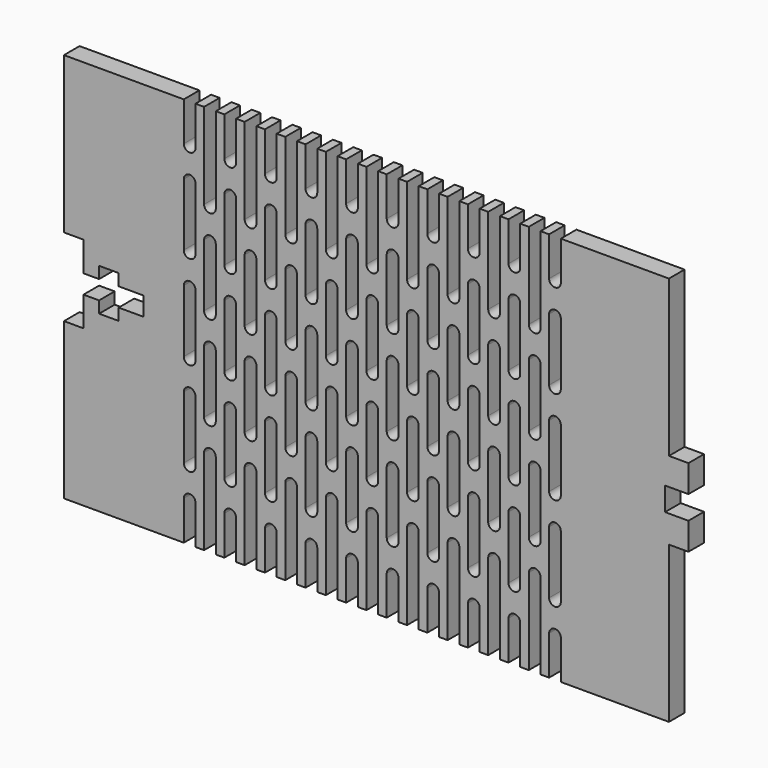
from build123d import *

# Parameters (mm, degrees)
F0_W     = 101.6
F0_H     = 63.5
F1_DEPTH = 3.175
F2_W     = 3.175
F2_H     = 25.4
F3_DEPTH = 25.4
F5_DEPTH = 25.4


with BuildPart() as f1:
    # F0 (on Front) → F1 (new body)
    with BuildSketch(Plane.XZ):
        Rectangle(F0_W, F0_H)
    extrude(amount=F1_DEPTH)

    # F2 (on Front) → F3 (cut)
    with BuildSketch(Plane.XZ):
        with Locations((49.2125, 19.05)):
            Rectangle(F2_W, F2_H)
        Polygon((50.8, -1.905), (50.8, 0), (50.8, 1.905), (46.99, 1.905), (46.99, 0), (46.99, -1.905), align=None)
        with Locations((49.2125, -19.05)):
            Rectangle(F2_W, F2_H)
        Polygon((-50.8, 6.35), (-50.8, 0), (-50.8, -6.35), (-47.625, -6.35), (-47.625, -1.524), (-45.085, -1.524), (-45.085, -3.429), (-41.91, -3.429), (-41.91, -1.524), (-37.846, -1.524), (-37.846, 0), (-37.846, 1.524), (-41.91, 1.524), (-41.91, 3.429), (-45.085, 3.429), (-45.085, 1.524), (-47.625, 1.524), (-47.625, 6.35), align=None)
    extrude(amount=F3_DEPTH, mode=Mode.SUBTRACT)

    # F4 (on face) → F5 (cut)
    with BuildSketch(Plane.XZ.offset(3.175)):
        with BuildLine():
            ThreePointArc((-24.7015, 25.4), (-23.749, 24.4475), (-22.7965, 25.4))
            Line((-22.7965, 25.4), (-22.7965, 31.75))
            Line((-22.7965, 31.75), (-23.749, 31.75))
            Line((-23.749, 31.75), (-24.7015, 31.75))
            Line((-24.7015, 31.75), (-24.7015, 25.4))
        make_face()
        with BuildLine():
            ThreePointArc((-22.7965, 20.32), (-23.749, 21.2725), (-24.7015, 20.32))
            Line((-24.7015, 20.32), (-24.7015, 10.16))
            ThreePointArc((-24.7015, 10.16), (-23.749, 9.2075), (-22.7965, 10.16))
            Line((-22.7965, 10.16), (-22.7965, 20.32))
        make_face()
        with BuildLine():
            ThreePointArc((-22.7965, 5.08), (-23.749, 6.0325), (-24.7015, 5.08))
            Line((-24.7015, 5.08), (-24.7015, 0))
            Line((-24.7015, 0), (-24.7015, -5.08))
            ThreePointArc((-24.7015, -5.08), (-23.749, -6.0325), (-22.7965, -5.08))
            Line((-22.7965, -5.08), (-22.7965, 0))
            Line((-22.7965, 0), (-22.7965, 5.08))
        make_face()
        with BuildLine():
            Line((-23.749, -31.75), (-22.7965, -31.75))
            Line((-22.7965, -31.75), (-22.7965, -25.4))
            ThreePointArc((-22.7965, -25.4), (-23.749, -24.4475), (-24.7015, -25.4))
            Line((-24.7015, -25.4), (-24.7015, -31.75))
            Line((-24.7015, -31.75), (-23.749, -31.75))
        make_face()
        with BuildLine():
            Line((-22.7965, -20.32), (-22.7965, -10.16))
            ThreePointArc((-22.7965, -10.16), (-23.749, -9.2075), (-24.7015, -10.16))
            Line((-24.7015, -10.16), (-24.7015, -20.32))
            ThreePointArc((-24.7015, -20.32), (-23.749, -21.2725), (-22.7965, -20.32))
        make_face()
        with BuildLine():
            ThreePointArc((-21.3995, 17.78), (-20.447, 16.8275), (-19.4945, 17.78))
            Line((-19.4945, 17.78), (-19.4945, 31.75))
            Line((-19.4945, 31.75), (-20.447, 31.75))
            Line((-20.447, 31.75), (-21.3995, 31.75))
            Line((-21.3995, 31.75), (-21.3995, 17.78))
        make_face()
        with BuildLine():
            ThreePointArc((-19.4945, 12.7), (-20.447, 13.6525), (-21.3995, 12.7))
            Line((-21.3995, 12.7), (-21.3995, 2.54))
            ThreePointArc((-21.3995, 2.54), (-20.447, 1.5875), (-19.4945, 2.54))
            Line((-19.4945, 2.54), (-19.4945, 12.7))
        make_face()
        with BuildLine():
            Line((-21.3995, -17.78), (-21.3995, -31.75))
            Line((-21.3995, -31.75), (-20.447, -31.75))
            Line((-20.447, -31.75), (-19.4945, -31.75))
            Line((-19.4945, -31.75), (-19.4945, -17.78))
            ThreePointArc((-19.4945, -17.78), (-20.447, -16.8275), (-21.3995, -17.78))
        make_face()
        with BuildLine():
            Line((-19.4945, -12.7), (-19.4945, -2.54))
            ThreePointArc((-19.4945, -2.54), (-20.447, -1.5875), (-21.3995, -2.54))
            Line((-21.3995, -2.54), (-21.3995, -12.7))
            ThreePointArc((-21.3995, -12.7), (-20.447, -13.6525), (-19.4945, -12.7))
        make_face()
        with BuildLine():
            Line((-16.1925, -31.75), (-16.1925, -25.4))
            ThreePointArc((-16.1925, -25.4), (-17.145, -24.4475), (-18.0975, -25.4))
            Line((-18.0975, -25.4), (-18.0975, -31.75))
            Line((-18.0975, -31.75), (-17.145, -31.75))
            Line((-17.145, -31.75), (-16.1925, -31.75))
        make_face()
        with BuildLine():
            Line((-14.7955, -2.54), (-14.7955, -12.7))
            ThreePointArc((-14.7955, -12.7), (-13.843, -13.6525), (-12.8905, -12.7))
            Line((-12.8905, -12.7), (-12.8905, -2.54))
            ThreePointArc((-12.8905, -2.54), (-13.843, -1.5875), (-14.7955, -2.54))
        make_face()
        with BuildLine():
            Line((-18.0975, -10.16), (-18.0975, -20.32))
            ThreePointArc((-18.0975, -20.32), (-17.145, -21.2725), (-16.1925, -20.32))
            Line((-16.1925, -20.32), (-16.1925, -10.16))
            ThreePointArc((-16.1925, -10.16), (-17.145, -9.2075), (-18.0975, -10.16))
        make_face()
        with BuildLine():
            ThreePointArc((-16.1925, 5.08), (-17.145, 6.0325), (-18.0975, 5.08))
            Line((-18.0975, 5.08), (-18.0975, 0))
            Line((-18.0975, 0), (-18.0975, -5.08))
            ThreePointArc((-18.0975, -5.08), (-17.145, -6.0325), (-16.1925, -5.08))
            Line((-16.1925, -5.08), (-16.1925, 0))
            Line((-16.1925, 0), (-16.1925, 5.08))
        make_face()
        with BuildLine():
            Line((-12.8905, 17.78), (-12.8905, 31.75))
            Line((-12.8905, 31.75), (-13.843, 31.75))
            Line((-13.843, 31.75), (-14.7955, 31.75))
            Line((-14.7955, 31.75), (-14.7955, 17.78))
            ThreePointArc((-14.7955, 17.78), (-13.843, 16.8275), (-12.8905, 17.78))
        make_face()
        with BuildLine():
            ThreePointArc((-12.8905, 12.7), (-13.843, 13.6525), (-14.7955, 12.7))
            Line((-14.7955, 12.7), (-14.7955, 2.54))
            ThreePointArc((-14.7955, 2.54), (-13.843, 1.5875), (-12.8905, 2.54))
            Line((-12.8905, 2.54), (-12.8905, 12.7))
        make_face()
        with BuildLine():
            Line((-16.1925, 25.4), (-16.1925, 31.75))
            Line((-16.1925, 31.75), (-17.145, 31.75))
            Line((-17.145, 31.75), (-18.0975, 31.75))
            Line((-18.0975, 31.75), (-18.0975, 25.4))
            ThreePointArc((-18.0975, 25.4), (-17.145, 24.4475), (-16.1925, 25.4))
        make_face()
        with BuildLine():
            Line((-13.843, -31.75), (-12.8905, -31.75))
            Line((-12.8905, -31.75), (-12.8905, -17.78))
            ThreePointArc((-12.8905, -17.78), (-13.843, -16.8275), (-14.7955, -17.78))
            Line((-14.7955, -17.78), (-14.7955, -31.75))
            Line((-14.7955, -31.75), (-13.843, -31.75))
        make_face()
        with BuildLine():
            Line((-16.1925, 10.16), (-16.1925, 20.32))
            ThreePointArc((-16.1925, 20.32), (-17.145, 21.2725), (-18.0975, 20.32))
            Line((-18.0975, 20.32), (-18.0975, 10.16))
            ThreePointArc((-18.0975, 10.16), (-17.145, 9.2075), (-16.1925, 10.16))
        make_face()
        with BuildLine():
            Line((-9.5885, -31.75), (-9.5885, -25.4))
            ThreePointArc((-9.5885, -25.4), (-10.541, -24.4475), (-11.4935, -25.4))
            Line((-11.4935, -25.4), (-11.4935, -31.75))
            Line((-11.4935, -31.75), (-10.541, -31.75))
            Line((-10.541, -31.75), (-9.5885, -31.75))
        make_face()
        with BuildLine():
            Line((-8.1915, -2.54), (-8.1915, -12.7))
            ThreePointArc((-8.1915, -12.7), (-7.239, -13.6525), (-6.2865, -12.7))
            Line((-6.2865, -12.7), (-6.2865, -2.54))
            ThreePointArc((-6.2865, -2.54), (-7.239, -1.5875), (-8.1915, -2.54))
        make_face()
        with BuildLine():
            Line((-11.4935, -10.16), (-11.4935, -20.32))
            ThreePointArc((-11.4935, -20.32), (-10.541, -21.2725), (-9.5885, -20.32))
            Line((-9.5885, -20.32), (-9.5885, -10.16))
            ThreePointArc((-9.5885, -10.16), (-10.541, -9.2075), (-11.4935, -10.16))
        make_face()
        with BuildLine():
            ThreePointArc((-9.5885, 5.08), (-10.541, 6.0325), (-11.4935, 5.08))
            Line((-11.4935, 5.08), (-11.4935, 0))
            Line((-11.4935, 0), (-11.4935, -5.08))
            ThreePointArc((-11.4935, -5.08), (-10.541, -6.0325), (-9.5885, -5.08))
            Line((-9.5885, -5.08), (-9.5885, 0))
            Line((-9.5885, 0), (-9.5885, 5.08))
        make_face()
        with BuildLine():
            Line((-6.2865, 17.78), (-6.2865, 31.75))
            Line((-6.2865, 31.75), (-7.239, 31.75))
            Line((-7.239, 31.75), (-8.1915, 31.75))
            Line((-8.1915, 31.75), (-8.1915, 17.78))
            ThreePointArc((-8.1915, 17.78), (-7.239, 16.8275), (-6.2865, 17.78))
        make_face()
        with BuildLine():
            ThreePointArc((-6.2865, 12.7), (-7.239, 13.6525), (-8.1915, 12.7))
            Line((-8.1915, 12.7), (-8.1915, 2.54))
            ThreePointArc((-8.1915, 2.54), (-7.239, 1.5875), (-6.2865, 2.54))
            Line((-6.2865, 2.54), (-6.2865, 12.7))
        make_face()
        with BuildLine():
            Line((-9.5885, 25.4), (-9.5885, 31.75))
            Line((-9.5885, 31.75), (-10.541, 31.75))
            Line((-10.541, 31.75), (-11.4935, 31.75))
            Line((-11.4935, 31.75), (-11.4935, 25.4))
            ThreePointArc((-11.4935, 25.4), (-10.541, 24.4475), (-9.5885, 25.4))
        make_face()
        with BuildLine():
            Line((-7.239, -31.75), (-6.2865, -31.75))
            Line((-6.2865, -31.75), (-6.2865, -17.78))
            ThreePointArc((-6.2865, -17.78), (-7.239, -16.8275), (-8.1915, -17.78))
            Line((-8.1915, -17.78), (-8.1915, -31.75))
            Line((-8.1915, -31.75), (-7.239, -31.75))
        make_face()
        with BuildLine():
            Line((-9.5885, 10.16), (-9.5885, 20.32))
            ThreePointArc((-9.5885, 20.32), (-10.541, 21.2725), (-11.4935, 20.32))
            Line((-11.4935, 20.32), (-11.4935, 10.16))
            ThreePointArc((-11.4935, 10.16), (-10.541, 9.2075), (-9.5885, 10.16))
        make_face()
        with BuildLine():
            Line((-2.9845, -31.75), (-2.9845, -25.4))
            ThreePointArc((-2.9845, -25.4), (-3.937, -24.4475), (-4.8895, -25.4))
            Line((-4.8895, -25.4), (-4.8895, -31.75))
            Line((-4.8895, -31.75), (-3.937, -31.75))
            Line((-3.937, -31.75), (-2.9845, -31.75))
        make_face()
        with BuildLine():
            Line((-1.5875, -2.54), (-1.5875, -12.7))
            ThreePointArc((-1.5875, -12.7), (-0.635, -13.6525), (0.3175, -12.7))
            Line((0.3175, -12.7), (0.3175, -2.54))
            ThreePointArc((0.3175, -2.54), (-0.635, -1.5875), (-1.5875, -2.54))
        make_face()
        with BuildLine():
            Line((-4.8895, -10.16), (-4.8895, -20.32))
            ThreePointArc((-4.8895, -20.32), (-3.937, -21.2725), (-2.9845, -20.32))
            Line((-2.9845, -20.32), (-2.9845, -10.16))
            ThreePointArc((-2.9845, -10.16), (-3.937, -9.2075), (-4.8895, -10.16))
        make_face()
        with BuildLine():
            ThreePointArc((-2.9845, 5.08), (-3.937, 6.0325), (-4.8895, 5.08))
            Line((-4.8895, 5.08), (-4.8895, 0))
            Line((-4.8895, 0), (-4.8895, -5.08))
            ThreePointArc((-4.8895, -5.08), (-3.937, -6.0325), (-2.9845, -5.08))
            Line((-2.9845, -5.08), (-2.9845, 0))
            Line((-2.9845, 0), (-2.9845, 5.08))
        make_face()
        with BuildLine():
            Line((0.3175, 17.78), (0.3175, 31.75))
            Line((0.3175, 31.75), (-0.635, 31.75))
            Line((-0.635, 31.75), (-1.5875, 31.75))
            Line((-1.5875, 31.75), (-1.5875, 17.78))
            ThreePointArc((-1.5875, 17.78), (-0.635, 16.8275), (0.3175, 17.78))
        make_face()
        with BuildLine():
            ThreePointArc((0.3175, 12.7), (-0.635, 13.6525), (-1.5875, 12.7))
            Line((-1.5875, 12.7), (-1.5875, 2.54))
            ThreePointArc((-1.5875, 2.54), (-0.635, 1.5875), (0.3175, 2.54))
            Line((0.3175, 2.54), (0.3175, 12.7))
        make_face()
        with BuildLine():
            Line((-2.9845, 25.4), (-2.9845, 31.75))
            Line((-2.9845, 31.75), (-3.937, 31.75))
            Line((-3.937, 31.75), (-4.8895, 31.75))
            Line((-4.8895, 31.75), (-4.8895, 25.4))
            ThreePointArc((-4.8895, 25.4), (-3.937, 24.4475), (-2.9845, 25.4))
        make_face()
        with BuildLine():
            Line((-0.635, -31.75), (0.3175, -31.75))
            Line((0.3175, -31.75), (0.3175, -17.78))
            ThreePointArc((0.3175, -17.78), (-0.635, -16.8275), (-1.5875, -17.78))
            Line((-1.5875, -17.78), (-1.5875, -31.75))
            Line((-1.5875, -31.75), (-0.635, -31.75))
        make_face()
        with BuildLine():
            Line((-2.9845, 10.16), (-2.9845, 20.32))
            ThreePointArc((-2.9845, 20.32), (-3.937, 21.2725), (-4.8895, 20.32))
            Line((-4.8895, 20.32), (-4.8895, 10.16))
            ThreePointArc((-4.8895, 10.16), (-3.937, 9.2075), (-2.9845, 10.16))
        make_face()
        with BuildLine():
            Line((3.6195, -31.75), (3.6195, -25.4))
            ThreePointArc((3.6195, -25.4), (2.667, -24.4475), (1.7145, -25.4))
            Line((1.7145, -25.4), (1.7145, -31.75))
            Line((1.7145, -31.75), (2.667, -31.75))
            Line((2.667, -31.75), (3.6195, -31.75))
        make_face()
        with BuildLine():
            Line((5.0165, -2.54), (5.0165, -12.7))
            ThreePointArc((5.0165, -12.7), (5.969, -13.6525), (6.9215, -12.7))
            Line((6.9215, -12.7), (6.9215, -2.54))
            ThreePointArc((6.9215, -2.54), (5.969, -1.5875), (5.0165, -2.54))
        make_face()
        with BuildLine():
            Line((1.7145, -10.16), (1.7145, -20.32))
            ThreePointArc((1.7145, -20.32), (2.667, -21.2725), (3.6195, -20.32))
            Line((3.6195, -20.32), (3.6195, -10.16))
            ThreePointArc((3.6195, -10.16), (2.667, -9.2075), (1.7145, -10.16))
        make_face()
        with BuildLine():
            ThreePointArc((3.6195, 5.08), (2.667, 6.0325), (1.7145, 5.08))
            Line((1.7145, 5.08), (1.7145, 0))
            Line((1.7145, 0), (1.7145, -5.08))
            ThreePointArc((1.7145, -5.08), (2.667, -6.0325), (3.6195, -5.08))
            Line((3.6195, -5.08), (3.6195, 0))
            Line((3.6195, 0), (3.6195, 5.08))
        make_face()
        with BuildLine():
            Line((6.9215, 17.78), (6.9215, 31.75))
            Line((6.9215, 31.75), (5.969, 31.75))
            Line((5.969, 31.75), (5.0165, 31.75))
            Line((5.0165, 31.75), (5.0165, 17.78))
            ThreePointArc((5.0165, 17.78), (5.969, 16.8275), (6.9215, 17.78))
        make_face()
        with BuildLine():
            ThreePointArc((6.9215, 12.7), (5.969, 13.6525), (5.0165, 12.7))
            Line((5.0165, 12.7), (5.0165, 2.54))
            ThreePointArc((5.0165, 2.54), (5.969, 1.5875), (6.9215, 2.54))
            Line((6.9215, 2.54), (6.9215, 12.7))
        make_face()
        with BuildLine():
            Line((3.6195, 25.4), (3.6195, 31.75))
            Line((3.6195, 31.75), (2.667, 31.75))
            Line((2.667, 31.75), (1.7145, 31.75))
            Line((1.7145, 31.75), (1.7145, 25.4))
            ThreePointArc((1.7145, 25.4), (2.667, 24.4475), (3.6195, 25.4))
        make_face()
        with BuildLine():
            Line((5.969, -31.75), (6.9215, -31.75))
            Line((6.9215, -31.75), (6.9215, -17.78))
            ThreePointArc((6.9215, -17.78), (5.969, -16.8275), (5.0165, -17.78))
            Line((5.0165, -17.78), (5.0165, -31.75))
            Line((5.0165, -31.75), (5.969, -31.75))
        make_face()
        with BuildLine():
            Line((3.6195, 10.16), (3.6195, 20.32))
            ThreePointArc((3.6195, 20.32), (2.667, 21.2725), (1.7145, 20.32))
            Line((1.7145, 20.32), (1.7145, 10.16))
            ThreePointArc((1.7145, 10.16), (2.667, 9.2075), (3.6195, 10.16))
        make_face()
        with BuildLine():
            Line((10.2235, -31.75), (10.2235, -25.4))
            ThreePointArc((10.2235, -25.4), (9.271, -24.4475), (8.3185, -25.4))
            Line((8.3185, -25.4), (8.3185, -31.75))
            Line((8.3185, -31.75), (9.271, -31.75))
            Line((9.271, -31.75), (10.2235, -31.75))
        make_face()
        with BuildLine():
            Line((11.6205, -2.54), (11.6205, -12.7))
            ThreePointArc((11.6205, -12.7), (12.573, -13.6525), (13.5255, -12.7))
            Line((13.5255, -12.7), (13.5255, -2.54))
            ThreePointArc((13.5255, -2.54), (12.573, -1.5875), (11.6205, -2.54))
        make_face()
        with BuildLine():
            Line((8.3185, -10.16), (8.3185, -20.32))
            ThreePointArc((8.3185, -20.32), (9.271, -21.2725), (10.2235, -20.32))
            Line((10.2235, -20.32), (10.2235, -10.16))
            ThreePointArc((10.2235, -10.16), (9.271, -9.2075), (8.3185, -10.16))
        make_face()
        with BuildLine():
            ThreePointArc((10.2235, 5.08), (9.271, 6.0325), (8.3185, 5.08))
            Line((8.3185, 5.08), (8.3185, 0))
            Line((8.3185, 0), (8.3185, -5.08))
            ThreePointArc((8.3185, -5.08), (9.271, -6.0325), (10.2235, -5.08))
            Line((10.2235, -5.08), (10.2235, 0))
            Line((10.2235, 0), (10.2235, 5.08))
        make_face()
        with BuildLine():
            Line((13.5255, 17.78), (13.5255, 31.75))
            Line((13.5255, 31.75), (12.573, 31.75))
            Line((12.573, 31.75), (11.6205, 31.75))
            Line((11.6205, 31.75), (11.6205, 17.78))
            ThreePointArc((11.6205, 17.78), (12.573, 16.8275), (13.5255, 17.78))
        make_face()
        with BuildLine():
            ThreePointArc((13.5255, 12.7), (12.573, 13.6525), (11.6205, 12.7))
            Line((11.6205, 12.7), (11.6205, 2.54))
            ThreePointArc((11.6205, 2.54), (12.573, 1.5875), (13.5255, 2.54))
            Line((13.5255, 2.54), (13.5255, 12.7))
        make_face()
        with BuildLine():
            Line((10.2235, 25.4), (10.2235, 31.75))
            Line((10.2235, 31.75), (9.271, 31.75))
            Line((9.271, 31.75), (8.3185, 31.75))
            Line((8.3185, 31.75), (8.3185, 25.4))
            ThreePointArc((8.3185, 25.4), (9.271, 24.4475), (10.2235, 25.4))
        make_face()
        with BuildLine():
            Line((12.573, -31.75), (13.5255, -31.75))
            Line((13.5255, -31.75), (13.5255, -17.78))
            ThreePointArc((13.5255, -17.78), (12.573, -16.8275), (11.6205, -17.78))
            Line((11.6205, -17.78), (11.6205, -31.75))
            Line((11.6205, -31.75), (12.573, -31.75))
        make_face()
        with BuildLine():
            Line((10.2235, 10.16), (10.2235, 20.32))
            ThreePointArc((10.2235, 20.32), (9.271, 21.2725), (8.3185, 20.32))
            Line((8.3185, 20.32), (8.3185, 10.16))
            ThreePointArc((8.3185, 10.16), (9.271, 9.2075), (10.2235, 10.16))
        make_face()
        with BuildLine():
            Line((16.8275, -31.75), (16.8275, -25.4))
            ThreePointArc((16.8275, -25.4), (15.875, -24.4475), (14.9225, -25.4))
            Line((14.9225, -25.4), (14.9225, -31.75))
            Line((14.9225, -31.75), (15.875, -31.75))
            Line((15.875, -31.75), (16.8275, -31.75))
        make_face()
        with BuildLine():
            Line((18.2245, -2.54), (18.2245, -12.7))
            ThreePointArc((18.2245, -12.7), (19.177, -13.6525), (20.1295, -12.7))
            Line((20.1295, -12.7), (20.1295, -2.54))
            ThreePointArc((20.1295, -2.54), (19.177, -1.5875), (18.2245, -2.54))
        make_face()
        with BuildLine():
            Line((14.9225, -10.16), (14.9225, -20.32))
            ThreePointArc((14.9225, -20.32), (15.875, -21.2725), (16.8275, -20.32))
            Line((16.8275, -20.32), (16.8275, -10.16))
            ThreePointArc((16.8275, -10.16), (15.875, -9.2075), (14.9225, -10.16))
        make_face()
        with BuildLine():
            ThreePointArc((16.8275, 5.08), (15.875, 6.0325), (14.9225, 5.08))
            Line((14.9225, 5.08), (14.9225, 0))
            Line((14.9225, 0), (14.9225, -5.08))
            ThreePointArc((14.9225, -5.08), (15.875, -6.0325), (16.8275, -5.08))
            Line((16.8275, -5.08), (16.8275, 0))
            Line((16.8275, 0), (16.8275, 5.08))
        make_face()
        with BuildLine():
            Line((20.1295, 17.78), (20.1295, 31.75))
            Line((20.1295, 31.75), (19.177, 31.75))
            Line((19.177, 31.75), (18.2245, 31.75))
            Line((18.2245, 31.75), (18.2245, 17.78))
            ThreePointArc((18.2245, 17.78), (19.177, 16.8275), (20.1295, 17.78))
        make_face()
        with BuildLine():
            ThreePointArc((20.1295, 12.7), (19.177, 13.6525), (18.2245, 12.7))
            Line((18.2245, 12.7), (18.2245, 2.54))
            ThreePointArc((18.2245, 2.54), (19.177, 1.5875), (20.1295, 2.54))
            Line((20.1295, 2.54), (20.1295, 12.7))
        make_face()
        with BuildLine():
            Line((16.8275, 25.4), (16.8275, 31.75))
            Line((16.8275, 31.75), (15.875, 31.75))
            Line((15.875, 31.75), (14.9225, 31.75))
            Line((14.9225, 31.75), (14.9225, 25.4))
            ThreePointArc((14.9225, 25.4), (15.875, 24.4475), (16.8275, 25.4))
        make_face()
        with BuildLine():
            Line((19.177, -31.75), (20.1295, -31.75))
            Line((20.1295, -31.75), (20.1295, -17.78))
            ThreePointArc((20.1295, -17.78), (19.177, -16.8275), (18.2245, -17.78))
            Line((18.2245, -17.78), (18.2245, -31.75))
            Line((18.2245, -31.75), (19.177, -31.75))
        make_face()
        with BuildLine():
            Line((16.8275, 10.16), (16.8275, 20.32))
            ThreePointArc((16.8275, 20.32), (15.875, 21.2725), (14.9225, 20.32))
            Line((14.9225, 20.32), (14.9225, 10.16))
            ThreePointArc((14.9225, 10.16), (15.875, 9.2075), (16.8275, 10.16))
        make_face()
        with BuildLine():
            Line((23.4315, -31.75), (23.4315, -25.4))
            ThreePointArc((23.4315, -25.4), (22.479, -24.4475), (21.5265, -25.4))
            Line((21.5265, -25.4), (21.5265, -31.75))
            Line((21.5265, -31.75), (22.479, -31.75))
            Line((22.479, -31.75), (23.4315, -31.75))
        make_face()
        with BuildLine():
            Line((24.8285, -2.54), (24.8285, -12.7))
            ThreePointArc((24.8285, -12.7), (25.781, -13.6525), (26.7335, -12.7))
            Line((26.7335, -12.7), (26.7335, -2.54))
            ThreePointArc((26.7335, -2.54), (25.781, -1.5875), (24.8285, -2.54))
        make_face()
        with BuildLine():
            Line((21.5265, -10.16), (21.5265, -20.32))
            ThreePointArc((21.5265, -20.32), (22.479, -21.2725), (23.4315, -20.32))
            Line((23.4315, -20.32), (23.4315, -10.16))
            ThreePointArc((23.4315, -10.16), (22.479, -9.2075), (21.5265, -10.16))
        make_face()
        with BuildLine():
            ThreePointArc((23.4315, 5.08), (22.479, 6.0325), (21.5265, 5.08))
            Line((21.5265, 5.08), (21.5265, 0))
            Line((21.5265, 0), (21.5265, -5.08))
            ThreePointArc((21.5265, -5.08), (22.479, -6.0325), (23.4315, -5.08))
            Line((23.4315, -5.08), (23.4315, 0))
            Line((23.4315, 0), (23.4315, 5.08))
        make_face()
        with BuildLine():
            Line((26.7335, 17.78), (26.7335, 31.75))
            Line((26.7335, 31.75), (25.781, 31.75))
            Line((25.781, 31.75), (24.8285, 31.75))
            Line((24.8285, 31.75), (24.8285, 17.78))
            ThreePointArc((24.8285, 17.78), (25.781, 16.8275), (26.7335, 17.78))
        make_face()
        with BuildLine():
            ThreePointArc((26.7335, 12.7), (25.781, 13.6525), (24.8285, 12.7))
            Line((24.8285, 12.7), (24.8285, 2.54))
            ThreePointArc((24.8285, 2.54), (25.781, 1.5875), (26.7335, 2.54))
            Line((26.7335, 2.54), (26.7335, 12.7))
        make_face()
        with BuildLine():
            Line((23.4315, 25.4), (23.4315, 31.75))
            Line((23.4315, 31.75), (22.479, 31.75))
            Line((22.479, 31.75), (21.5265, 31.75))
            Line((21.5265, 31.75), (21.5265, 25.4))
            ThreePointArc((21.5265, 25.4), (22.479, 24.4475), (23.4315, 25.4))
        make_face()
        with BuildLine():
            Line((25.781, -31.75), (26.7335, -31.75))
            Line((26.7335, -31.75), (26.7335, -17.78))
            ThreePointArc((26.7335, -17.78), (25.781, -16.8275), (24.8285, -17.78))
            Line((24.8285, -17.78), (24.8285, -31.75))
            Line((24.8285, -31.75), (25.781, -31.75))
        make_face()
        with BuildLine():
            Line((23.4315, 10.16), (23.4315, 20.32))
            ThreePointArc((23.4315, 20.32), (22.479, 21.2725), (21.5265, 20.32))
            Line((21.5265, 20.32), (21.5265, 10.16))
            ThreePointArc((21.5265, 10.16), (22.479, 9.2075), (23.4315, 10.16))
        make_face()
        with BuildLine():
            Line((-29.4005, 10.16), (-29.4005, 20.32))
            ThreePointArc((-29.4005, 20.32), (-30.353, 21.2725), (-31.3055, 20.32))
            Line((-31.3055, 20.32), (-31.3055, 10.16))
            ThreePointArc((-31.3055, 10.16), (-30.353, 9.2075), (-29.4005, 10.16))
        make_face()
        with BuildLine():
            Line((-27.051, -31.75), (-26.0985, -31.75))
            Line((-26.0985, -31.75), (-26.0985, -17.78))
            ThreePointArc((-26.0985, -17.78), (-27.051, -16.8275), (-28.0035, -17.78))
            Line((-28.0035, -17.78), (-28.0035, -31.75))
            Line((-28.0035, -31.75), (-27.051, -31.75))
        make_face()
        with BuildLine():
            Line((-26.0985, 17.78), (-26.0985, 31.75))
            Line((-26.0985, 31.75), (-27.051, 31.75))
            Line((-27.051, 31.75), (-28.0035, 31.75))
            Line((-28.0035, 31.75), (-28.0035, 17.78))
            ThreePointArc((-28.0035, 17.78), (-27.051, 16.8275), (-26.0985, 17.78))
        make_face()
        with BuildLine():
            Line((-30.353, -31.75), (-29.4005, -31.75))
            Line((-29.4005, -31.75), (-29.4005, -25.4))
            ThreePointArc((-29.4005, -25.4), (-30.353, -24.4475), (-31.3055, -25.4))
            Line((-31.3055, -25.4), (-31.3055, -31.75))
            Line((-31.3055, -31.75), (-30.353, -31.75))
        make_face()
        with BuildLine():
            Line((-26.0985, 2.54), (-26.0985, 12.7))
            ThreePointArc((-26.0985, 12.7), (-27.051, 13.6525), (-28.0035, 12.7))
            Line((-28.0035, 12.7), (-28.0035, 2.54))
            ThreePointArc((-28.0035, 2.54), (-27.051, 1.5875), (-26.0985, 2.54))
        make_face()
        with BuildLine():
            Line((-29.4005, 0), (-29.4005, 5.08))
            ThreePointArc((-29.4005, 5.08), (-30.353, 6.0325), (-31.3055, 5.08))
            Line((-31.3055, 5.08), (-31.3055, 0))
            Line((-31.3055, 0), (-31.3055, -5.08))
            ThreePointArc((-31.3055, -5.08), (-30.353, -6.0325), (-29.4005, -5.08))
            Line((-29.4005, -5.08), (-29.4005, 0))
        make_face()
        with BuildLine():
            Line((-31.3055, -10.16), (-31.3055, -20.32))
            ThreePointArc((-31.3055, -20.32), (-30.353, -21.2725), (-29.4005, -20.32))
            Line((-29.4005, -20.32), (-29.4005, -10.16))
            ThreePointArc((-29.4005, -10.16), (-30.353, -9.2075), (-31.3055, -10.16))
        make_face()
        with BuildLine():
            ThreePointArc((-28.0035, -12.7), (-27.051, -13.6525), (-26.0985, -12.7))
            Line((-26.0985, -12.7), (-26.0985, -2.54))
            ThreePointArc((-26.0985, -2.54), (-27.051, -1.5875), (-28.0035, -2.54))
            Line((-28.0035, -2.54), (-28.0035, -12.7))
        make_face()
        with BuildLine():
            Line((-29.4005, 25.4), (-29.4005, 31.75))
            Line((-29.4005, 31.75), (-30.353, 31.75))
            Line((-30.353, 31.75), (-31.3055, 31.75))
            Line((-31.3055, 31.75), (-31.3055, 25.4))
            ThreePointArc((-31.3055, 25.4), (-30.353, 24.4475), (-29.4005, 25.4))
        make_face()
        with BuildLine():
            Line((30.0355, -31.75), (30.0355, -25.4))
            ThreePointArc((30.0355, -25.4), (29.083, -24.4475), (28.1305, -25.4))
            Line((28.1305, -25.4), (28.1305, -31.75))
            Line((28.1305, -31.75), (29.083, -31.75))
            Line((29.083, -31.75), (30.0355, -31.75))
        make_face()
        with BuildLine():
            Line((28.1305, -10.16), (28.1305, -20.32))
            ThreePointArc((28.1305, -20.32), (29.083, -21.2725), (30.0355, -20.32))
            Line((30.0355, -20.32), (30.0355, -10.16))
            ThreePointArc((30.0355, -10.16), (29.083, -9.2075), (28.1305, -10.16))
        make_face()
        with BuildLine():
            ThreePointArc((30.0355, 5.08), (29.083, 6.0325), (28.1305, 5.08))
            Line((28.1305, 5.08), (28.1305, 0))
            Line((28.1305, 0), (28.1305, -5.08))
            ThreePointArc((28.1305, -5.08), (29.083, -6.0325), (30.0355, -5.08))
            Line((30.0355, -5.08), (30.0355, 0))
            Line((30.0355, 0), (30.0355, 5.08))
        make_face()
        with BuildLine():
            Line((30.0355, 25.4), (30.0355, 31.75))
            Line((30.0355, 31.75), (29.083, 31.75))
            Line((29.083, 31.75), (28.1305, 31.75))
            Line((28.1305, 31.75), (28.1305, 25.4))
            ThreePointArc((28.1305, 25.4), (29.083, 24.4475), (30.0355, 25.4))
        make_face()
        with BuildLine():
            Line((30.0355, 10.16), (30.0355, 20.32))
            ThreePointArc((30.0355, 20.32), (29.083, 21.2725), (28.1305, 20.32))
            Line((28.1305, 20.32), (28.1305, 10.16))
            ThreePointArc((28.1305, 10.16), (29.083, 9.2075), (30.0355, 10.16))
        make_face()
    extrude(amount=-F5_DEPTH, mode=Mode.SUBTRACT)


solid = f1.part
